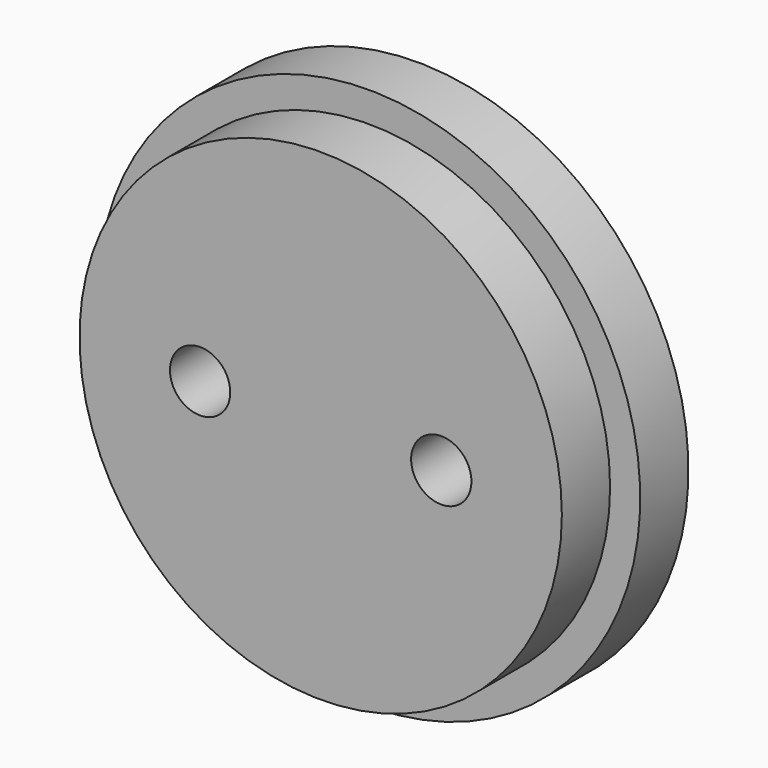
from build123d import *

# Parameters (mm, degrees)
F0_R     = 12.7
F0_R_2   = 1.5875
F1_DEPTH = 3.175
F2_R     = 14.2875
F2_R_2   = 1.5875
F3_DEPTH = 3.175


with BuildPart() as f1:
    # F0 (on Front) → F1 (new body)
    with BuildSketch(Plane.XZ):
        Circle(F0_R)
        with Locations((-6.35, 0)):
            Circle(F0_R_2, mode=Mode.SUBTRACT)
        with Locations((6.35, 0)):
            Circle(F0_R_2, mode=Mode.SUBTRACT)
    extrude(amount=F1_DEPTH)

    # F2 (on face) → F3 (join)
    with BuildSketch(Plane(origin=(0, 0, 0), x_dir=(-1, 0, 0), z_dir=(0, 1, 0))):
        Circle(F2_R)
        with Locations((-6.35, 0)):
            Circle(F2_R_2, mode=Mode.SUBTRACT)
        with Locations((6.35, 0)):
            Circle(F2_R_2, mode=Mode.SUBTRACT)
    extrude(amount=F3_DEPTH)


solid = f1.part
